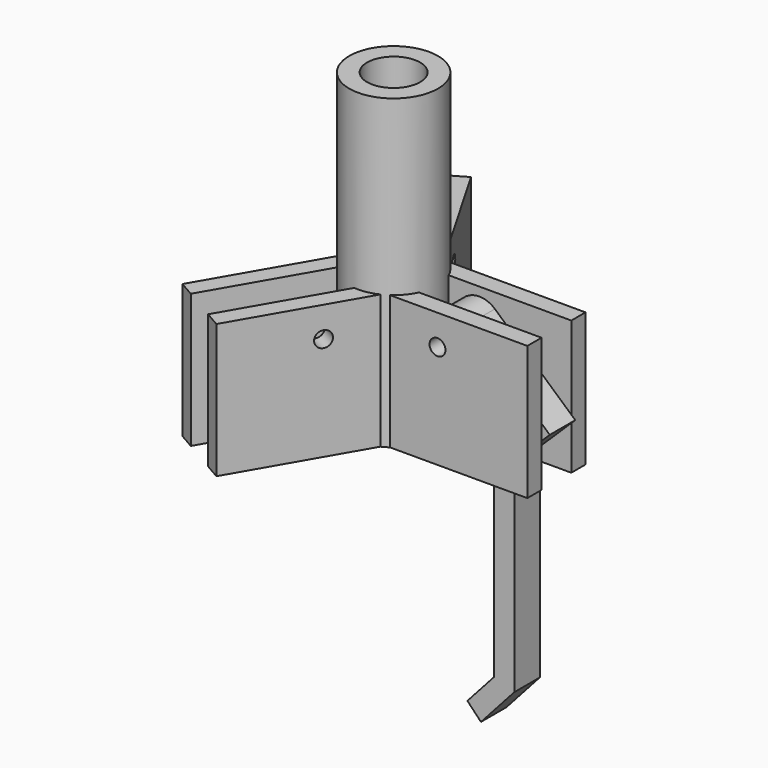
from build123d import *

# Parameters (mm, degrees)
F0_R          = 0.75
F1_DEPTH      = 1.5
F0_W          = 1.67
F0_H          = 28.8994106865
F4_START      = 2.02598
F3_W          = 1.67
F3_H          = 12.607557092
F4_DEPTH      = 13.29047
F5_DEPTH      = 4.171
F5_DEPTH_BACK = 4.171
F6_COUNT      = 3
F6_ANGLE      = 240


with BuildPart() as f1:
    # F0 (on Front) → F1 (new body, symmetric)
    with BuildSketch(Plane.XZ):
        with BuildLine():
            ThreePointArc((8.3259478516, 11.3943462091), (8.867825013, 10.6538749035), (9.0596246932, 9.7565781325))
            ThreePointArc((9.0596246932, 9.7565781325), (6.8648123466, 7.5617657859), (4.67, 9.7565781325))
            Line((4.67, 9.7565781325), (4.67, 0))
            Line((4.67, 0), (10.6390506752, 0))
            Line((10.6390506752, 0), (10.6390506752, -17.1242297017))
            Line((10.6390506752, -17.1242297017), (8.1397524826, -19.9012287282))
            Line((8.1397524826, -19.9012287282), (9.4171712898, -21.2341878884))
            Line((9.4171712898, -21.2341878884), (12.5488880715, -17.7545012787))
            Line((12.5488880715, -17.7545012787), (12.5488880715, 1.3705757358))
            Line((12.5488880715, 1.3705757358), (15.88907169, 4.6469019726))
            Line((15.88907169, 4.6469019726), (8.3259478516, 11.3943462091))
        make_face()
        with BuildLine():
            ThreePointArc((4.67, 9.7565781325), (6.8648123466, 7.5617657859), (9.0596246932, 9.7565781325))
            ThreePointArc((9.0596246932, 9.7565781325), (8.867825013, 10.6538749035), (8.3259478516, 11.3943462091))
            ThreePointArc((8.3259478516, 11.3943462091), (5.9675155757, 11.7595907989), (4.67, 9.7565781325))
        make_face()
        with Locations((6.8648123466, 9.7565781325)):
            Circle(F0_R, mode=Mode.SUBTRACT)
    extrude(amount=F1_DEPTH, both=True)


with BuildPart() as f2:
    # F0 (on Front) → F2 (revolve)
    with BuildSketch(Plane.XZ):
        with Locations((3.335, 14.4497053433)):
            Rectangle(F0_W, F0_H)
    revolve(axis=Axis((0, 0, 14.4497053433), (0, 0, 1)))

    # F3 (on Right) → F4 (join)
    with BuildSketch(Plane.YZ.offset(F4_START)):
        with Locations((2.585, 6.303778546)):
            Rectangle(F3_W, F3_H)
        with Locations((-2.585, 6.303778546)):
            Rectangle(F3_W, F3_H)
    extrude(amount=F4_DEPTH)

    # F0 (on Front) → F5 (cut, two sides)
    with BuildSketch(Plane.XZ) as f5_sk:
        with Locations((6.8648123466, 9.7565781325)):
            Circle(F0_R)
    extrude(amount=-F5_DEPTH, mode=Mode.SUBTRACT)
    extrude(f5_sk.sketch, amount=F5_DEPTH_BACK, mode=Mode.SUBTRACT)

    # F6: F2 ×3 about axis
    f6_axis = Axis((0, 0, 14.4497053433), (0, 0, 1))


with BuildPart() as f2_1:
    add(f2.part)
    for i in range(1, F6_COUNT):
        add(f2.part.rotate(f6_axis, i * F6_ANGLE / (F6_COUNT - 1)))


solid = Compound([f1.part, f2_1.part])
